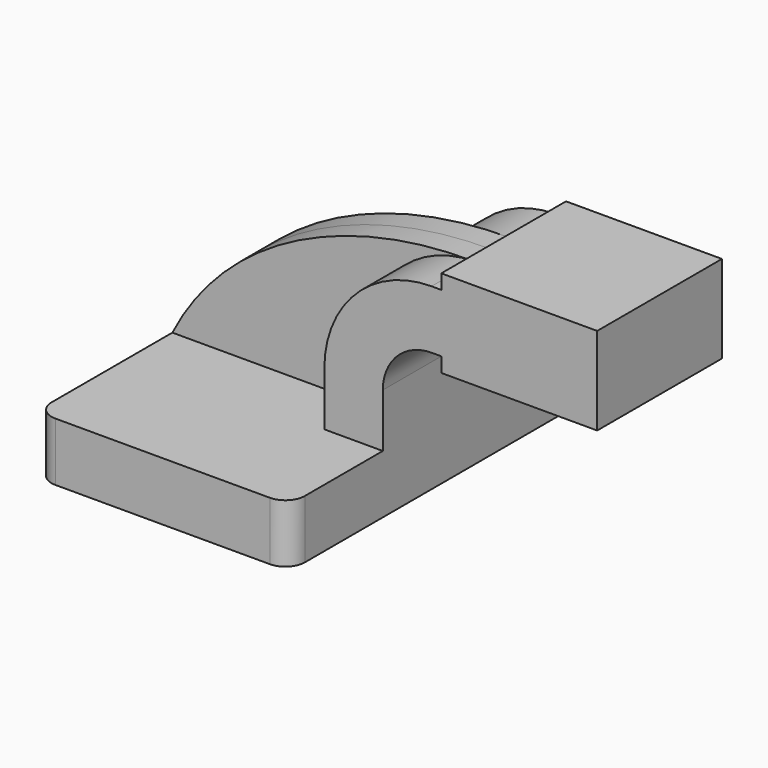
from build123d import *

# Parameters (mm, degrees)
F1_DEPTH = 63.5
F0_W     = 19.3484129535
F0_H     = 19.05
F0_H_2   = 4.7498
F0_H_3   = 4.7752
F2_DEPTH = 25.4
F3_DEPTH = 7.9375
F4_R     = 6.35


with BuildPart() as f1:
    # F0 (on Front) → F1 (new body, symmetric)
    with BuildSketch(Plane.XZ):
        Polygon((-41.275, 18.6743041574), (-41.275, -0.3756958426), (41.275, -0.3756958426), (41.275, 18.6743041574), (22.225, 18.6743041574), align=None)
    extrude(amount=F1_DEPTH, both=True)

    # F0 (on Front) → F2 (join, symmetric)
    with BuildSketch(Plane.XZ):
        with BuildLine():
            Line((22.225, 18.6743041574), (41.275, 18.6743041574))
            Line((41.275, 18.6743041574), (41.275, 36.1495041574))
            ThreePointArc((41.275, 36.1495041574), (45.9246798487, 47.3748243087), (57.15, 52.0245041574))
            Line((57.15, 52.0245041574), (60.325, 52.0245041574))
            Line((60.325, 52.0245041574), (60.325, 71.0745041574))
            Line((60.325, 71.0745041574), (57.15, 71.0745041574))
            ThreePointArc((57.15, 71.0745041574), (32.4542956671, 60.8452084903), (22.225, 36.1495041574))
            Line((22.225, 36.1495041574), (22.225, 18.6743041574))
        make_face()
        Polygon((79.6734129535, 75.8243041574), (79.6734129535, 71.0745041574), (79.6734129535, 52.0245041574), (79.6734129535, 47.2493041574), (111.125, 47.2493041574), (111.125, 75.8243041574), align=None)
        with Locations((69.9992064767, 61.5495041574)):
            Rectangle(F0_W, F0_H)
        with Locations((69.9992064767, 73.4494041574)):
            Rectangle(F0_W, F0_H_2)
        with Locations((69.9992064767, 49.6369041574)):
            Rectangle(F0_W, F0_H_3)
    extrude(amount=F2_DEPTH, both=True)

    # F0 (on Front) → F3 (join, symmetric)
    with BuildSketch(Plane.XZ):
        with BuildLine():
            add(Edge.make_bspline(
                [(-41.275, 18.6743041574), (-22.7171909064, 55.2262067795), (18.2569045573, 71.5698078275), (57.15, 71.0745041574)],
                knots=[0, 0, 0, 0, 111.5045361635, 111.5045361635, 111.5045361635, 111.5045361635], degree=3))
            Line((-41.275, 18.6743041574), (22.225, 18.6743041574))
            Line((22.225, 18.6743041574), (22.225, 36.1495041574))
            ThreePointArc((22.225, 36.1495041574), (32.4542956671, 60.8452084903), (57.15, 71.0745041574))
        make_face()
    extrude(amount=F3_DEPTH, both=True)

    # F4
    f4_edges = [f1.edges().sort_by_distance(p)[0] for p in [
        (-41.275, 63.5, 9.149304),
        (-41.275, -63.5, 9.149304),
        (41.275, 63.5, 9.149304),
        (41.275, -63.5, 9.149304),
    ]]
    fillet(f4_edges, radius=F4_R)


solid = f1.part
